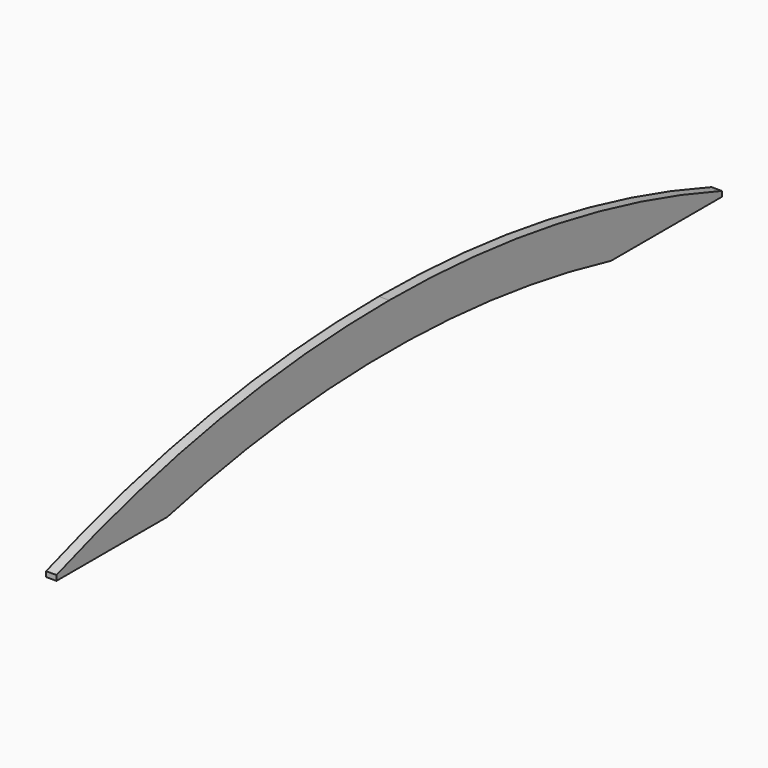
from build123d import *

# Parameters (mm, degrees)
F0_W     = 38.1
F0_H     = 285.75
F1_DEPTH = 1524
F3_DEPTH = 38.101
F5_DEPTH = 38.101


with BuildPart() as f1:
    # F0 (on Front) → F1 (new body, symmetric)
    with BuildSketch(Plane.XZ):
        Rectangle(F0_W, F0_H)
    extrude(amount=F1_DEPTH, both=True)

    # F2 (on face) → F3 (cut, through all)
    with BuildSketch(Plane(origin=(-19.05, 0, 0), x_dir=(0, -1, 0), z_dir=(-1, 0, 0))):
        with BuildLine():
            ThreePointArc((-1524, -123.825), (-773.580133, 75.69719), (0, 142.875))
            ThreePointArc((0, 142.875), (773.580133, 75.69719), (1524, -123.825))
            Line((1524, -123.825), (1568.751097, -123.825))
            Line((1568.751097, -123.825), (1568.751097, 303.390563))
            Line((1568.751097, 303.390563), (-1570.600986, 303.390563))
            Line((-1570.600986, 303.390563), (-1570.600986, -123.825))
            Line((-1570.600986, -123.825), (-1524, -123.825))
        make_face()
    extrude(amount=-F3_DEPTH, mode=Mode.SUBTRACT)

    # F4 (on face) → F5 (cut, through all)
    with BuildSketch(Plane.YZ.offset(19.05)):
        with BuildLine():
            Line((1016.469811, -481.722683), (1016, -142.875))
            ThreePointArc((1016, -142.875), (0, -21.787252), (-1016, -142.875))
            Line((-1016, -142.875), (-1016, -481.722683))
            Line((-1016, -481.722683), (1016.469811, -481.722683))
        make_face()
    extrude(amount=-F5_DEPTH, mode=Mode.SUBTRACT)


solid = f1.part
